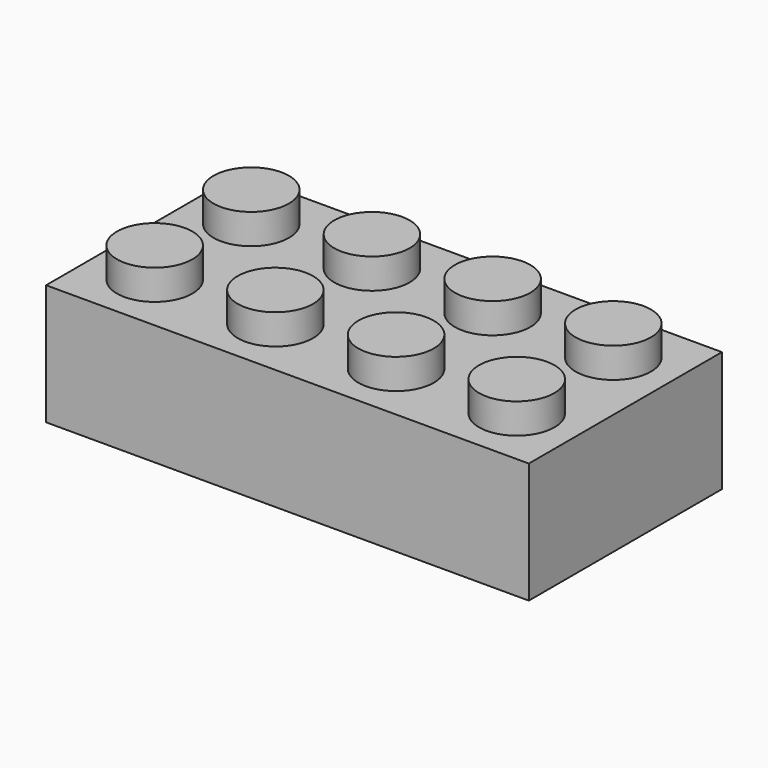
from build123d import *

# Parameters (mm, degrees)
F0_W     = 32
F0_H     = 16
F1_DEPTH = 8
F2_R     = 2.5
F3_DEPTH = 2
F4_W     = 29.6
F4_H     = 13.6
F4_R     = 3.267
F5_DEPTH = 6.8
F6_R     = 2.6
F7_DEPTH = 6
F8_R     = 2.6
F9_DEPTH = 6


with BuildPart() as f1:
    # F0 (on Top) → F1 (new body)
    with BuildSketch(Plane.XY):
        Rectangle(F0_W, F0_H)
    extrude(amount=F1_DEPTH)

    # F2 (on face) → F3 (join)
    with BuildSketch(Plane.XY.offset(8)):
        with Locations((-12, 4)):
            Circle(F2_R)
        with Locations((-4, 4)):
            Circle(F2_R)
        with Locations((4, 4)):
            Circle(F2_R)
        with Locations((12, 4)):
            Circle(F2_R)
        with Locations((12, -4)):
            Circle(F2_R)
        with Locations((4, -4)):
            Circle(F2_R)
        with Locations((-4, -4)):
            Circle(F2_R)
        with Locations((-12, -4)):
            Circle(F2_R)
    extrude(amount=F3_DEPTH)

    # F4 (on face) → F5 (cut)
    with BuildSketch(Plane(origin=(0, 0, 0), x_dir=(1, 0, 0), z_dir=(0, 0, -1))):
        Rectangle(F4_W, F4_H)
        with Locations((-8, 0)):
            Circle(F4_R, mode=Mode.SUBTRACT)
        Circle(F4_R, mode=Mode.SUBTRACT)
        with Locations((8, 0)):
            Circle(F4_R, mode=Mode.SUBTRACT)
    extrude(amount=-F5_DEPTH, mode=Mode.SUBTRACT)

    # F6 (on face) → F7 (cut)
    with BuildSketch(Plane(origin=(0, 0, 0), x_dir=(1, 0, 0), z_dir=(0, 0, -1))):
        Circle(F6_R)
        with Locations((8, 0)):
            Circle(F6_R)
    extrude(amount=-F7_DEPTH, mode=Mode.SUBTRACT)

    # F8 (on face) → F9 (cut)
    with BuildSketch(Plane(origin=(0, 0, 0), x_dir=(1, 0, 0), z_dir=(0, 0, -1))):
        with Locations((-8, 0)):
            Circle(F8_R)
    extrude(amount=-F9_DEPTH, mode=Mode.SUBTRACT)


solid = f1.part
